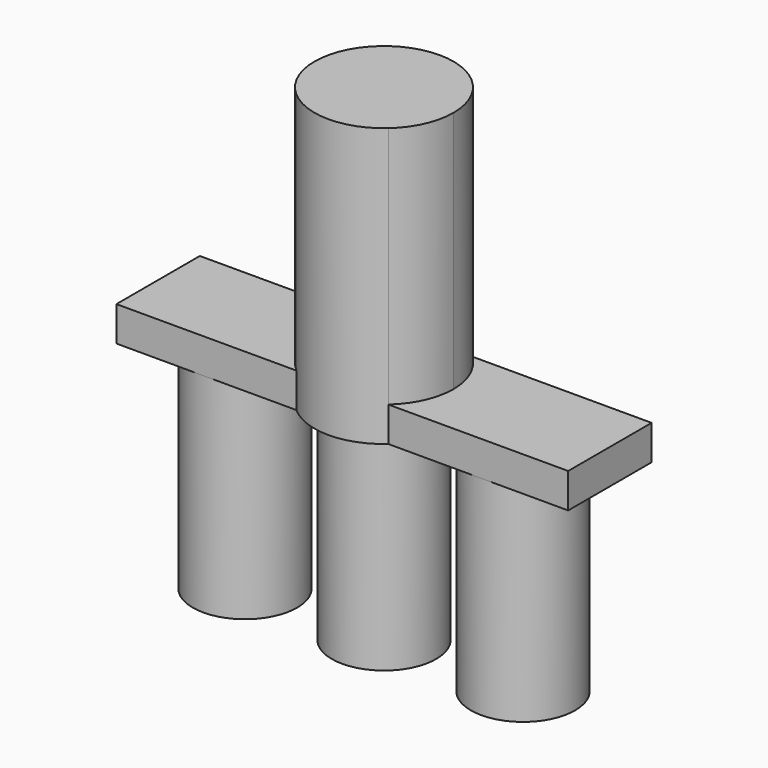
from build123d import *

# Parameters (mm, degrees)
F1_DEPTH = 5
F2_DEPTH = 30
F3_DEPTH = 40


with BuildPart() as f1:
    # F0 (on Top) → F1 (new body)
    with BuildSketch(Plane.XY):
        with BuildLine():
            ThreePointArc((-20, -7.5), (-27.5, 0), (-20, 7.5))
            Line((-20, 7.5), (-32.5, 7.5))
            Line((-32.5, 7.5), (-32.5, -7.5))
            Line((-32.5, -7.5), (-20, -7.5))
        make_face()
        with BuildLine():
            Line((32.5, -7.5), (32.5, 7.5))
            Line((32.5, 7.5), (20, 7.5))
            ThreePointArc((20, 7.5), (25.3033008589, 5.3033008589), (27.5, 0))
            ThreePointArc((27.5, 0), (25.3033008589, -5.3033008589), (20, -7.5))
            Line((20, -7.5), (32.5, -7.5))
        make_face()
        with BuildLine():
            ThreePointArc((27.5, 0), (25.3033008589, 5.3033008589), (20, 7.5))
            ThreePointArc((20, 7.5), (12.5, 0), (20, -7.5))
            ThreePointArc((20, -7.5), (25.3033008589, -5.3033008589), (27.5, 0))
        make_face()
        with BuildLine():
            ThreePointArc((10, 0), (9.1143782777, 4.1143782777), (6.6143782777, 7.5))
            Line((6.6143782777, 7.5), (0, 7.5))
            ThreePointArc((0, 7.5), (5.3033008589, 5.3033008589), (7.5, 0))
            ThreePointArc((7.5, 0), (5.3033008488, -5.303300869), (-2.86e-08, -7.5))
            Line((-2.86e-08, -7.5), (6.6143782777, -7.5))
            ThreePointArc((6.6143782777, -7.5), (9.1143782777, -4.1143782777), (10, 0))
        make_face()
        with BuildLine():
            ThreePointArc((20, -7.5), (12.5, 0), (20, 7.5))
            Line((20, 7.5), (6.6143782777, 7.5))
            ThreePointArc((6.6143782777, 7.5), (9.1143782777, 4.1143782777), (10, 0))
            ThreePointArc((10, 0), (9.1143782777, -4.1143782777), (6.6143782777, -7.5))
            Line((6.6143782777, -7.5), (20, -7.5))
        make_face()
        with BuildLine():
            ThreePointArc((7.5, 0), (5.3033008589, 5.3033008589), (0, 7.5))
            ThreePointArc((0, 7.5), (-7.5, 1.43e-08), (-2.86e-08, -7.5))
            ThreePointArc((-2.86e-08, -7.5), (5.3033008488, -5.303300869), (7.5, 0))
        make_face()
        with BuildLine():
            ThreePointArc((-2.86e-08, -7.5), (-7.5, 1.43e-08), (0, 7.5))
            Line((0, 7.5), (-6.6143782777, 7.5))
            ThreePointArc((-6.6143782777, 7.5), (-10, 0), (-6.6143782777, -7.5))
            Line((-6.6143782777, -7.5), (-2.86e-08, -7.5))
        make_face()
        with BuildLine():
            ThreePointArc((-6.6143782777, -7.5), (-10, 0), (-6.6143782777, 7.5))
            Line((-6.6143782777, 7.5), (-20, 7.5))
            ThreePointArc((-20, 7.5), (-14.6966991411, 5.3033008589), (-12.5, 0))
            ThreePointArc((-12.5, 0), (-14.6966991411, -5.3033008589), (-20, -7.5))
            Line((-20, -7.5), (-6.6143782777, -7.5))
        make_face()
        with BuildLine():
            ThreePointArc((-12.5, 0), (-14.6966991411, 5.3033008589), (-20, 7.5))
            ThreePointArc((-20, 7.5), (-27.5, 0), (-20, -7.5))
            ThreePointArc((-20, -7.5), (-14.6966991411, -5.3033008589), (-12.5, 0))
        make_face()
    extrude(amount=F1_DEPTH)

    # F0 (on Top) → F2 (join)
    with BuildSketch(Plane.XY):
        with BuildLine():
            ThreePointArc((-12.5, 0), (-14.6966991411, 5.3033008589), (-20, 7.5))
            ThreePointArc((-20, 7.5), (-27.5, 0), (-20, -7.5))
            ThreePointArc((-20, -7.5), (-14.6966991411, -5.3033008589), (-12.5, 0))
        make_face()
        with BuildLine():
            ThreePointArc((7.5, 0), (5.3033008589, 5.3033008589), (0, 7.5))
            ThreePointArc((0, 7.5), (-7.5, 1.43e-08), (-2.86e-08, -7.5))
            ThreePointArc((-2.86e-08, -7.5), (5.3033008488, -5.303300869), (7.5, 0))
        make_face()
        with BuildLine():
            ThreePointArc((27.5, 0), (25.3033008589, 5.3033008589), (20, 7.5))
            ThreePointArc((20, 7.5), (12.5, 0), (20, -7.5))
            ThreePointArc((20, -7.5), (25.3033008589, -5.3033008589), (27.5, 0))
        make_face()
    extrude(amount=-F2_DEPTH)


with BuildPart() as f3:
    # F0 (on Top) → F3 (new body)
    with BuildSketch(Plane.XY):
        with BuildLine():
            ThreePointArc((7.5, 0), (5.3033008589, 5.3033008589), (0, 7.5))
            ThreePointArc((0, 7.5), (-7.5, 1.43e-08), (-2.86e-08, -7.5))
            ThreePointArc((-2.86e-08, -7.5), (5.3033008488, -5.303300869), (7.5, 0))
        make_face()
        with BuildLine():
            ThreePointArc((10, 0), (9.1143782777, 4.1143782777), (6.6143782777, 7.5))
            Line((6.6143782777, 7.5), (0, 7.5))
            ThreePointArc((0, 7.5), (5.3033008589, 5.3033008589), (7.5, 0))
            ThreePointArc((7.5, 0), (5.3033008488, -5.303300869), (-2.86e-08, -7.5))
            Line((-2.86e-08, -7.5), (6.6143782777, -7.5))
            ThreePointArc((6.6143782777, -7.5), (9.1143782777, -4.1143782777), (10, 0))
        make_face()
        with BuildLine():
            ThreePointArc((-2.86e-08, -7.5), (-7.5, 1.43e-08), (0, 7.5))
            Line((0, 7.5), (-6.6143782777, 7.5))
            ThreePointArc((-6.6143782777, 7.5), (-10, 0), (-6.6143782777, -7.5))
            Line((-6.6143782777, -7.5), (-2.86e-08, -7.5))
        make_face()
        with BuildLine():
            Line((0, 7.5), (6.6143782777, 7.5))
            ThreePointArc((6.6143782777, 7.5), (0, 10), (-6.6143782777, 7.5))
            Line((-6.6143782777, 7.5), (0, 7.5))
        make_face()
        with BuildLine():
            ThreePointArc((-6.6143782777, -7.5), (0, -10), (6.6143782777, -7.5))
            Line((6.6143782777, -7.5), (-2.86e-08, -7.5))
            Line((-2.86e-08, -7.5), (-6.6143782777, -7.5))
        make_face()
    extrude(amount=F3_DEPTH)


solid = Compound([f1.part, f3.part])
